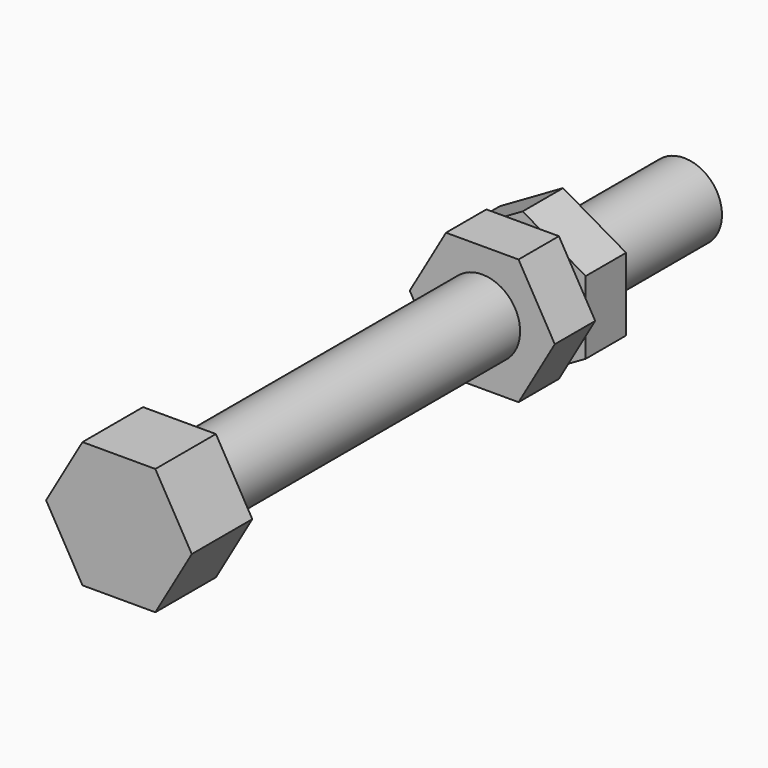
from build123d import *

# Parameters (mm, degrees)
F1_DEPTH = 3
F2_R     = 1.5
F3_DEPTH = 25
F6_DEPTH = 2
F9_DEPTH = 2


with BuildPart() as f1:
    # F0 (on Front) → F1 (new body)
    with BuildSketch(Plane.XZ):
        Polygon((-1.443376, -2.5), (1.443376, -2.5), (2.886751, 0), (1.443376, 2.5), (-1.443376, 2.5), (-2.886751, 0), align=None)
    extrude(amount=F1_DEPTH)

    # F2 (on face) → F3 (join)
    with BuildSketch(Plane(origin=(0, 0, 0), x_dir=(-1, 0, 0), z_dir=(0, 1, 0))):
        Circle(F2_R)
    extrude(amount=F3_DEPTH)

    # F5 (on offset) → F6 (join)
    with BuildSketch(Plane.XZ.offset(-15)):
        Polygon((1.437224, 2.489345), (-1.437224, 2.489345), (-2.874448, 0), (-1.437224, -2.489345), (1.437224, -2.489345), (2.874448, 0), align=None)
    extrude(amount=-F6_DEPTH)

    # F8 (on offset) → F9 (join)
    with BuildSketch(Plane.XZ.offset(-17)):
        Polygon((2.5, -1.443376), (2.5, 1.443376), (0, 2.886751), (-2.5, 1.443376), (-2.5, -1.443376), (0, -2.886751), align=None)
    extrude(amount=-F9_DEPTH)


solid = f1.part
